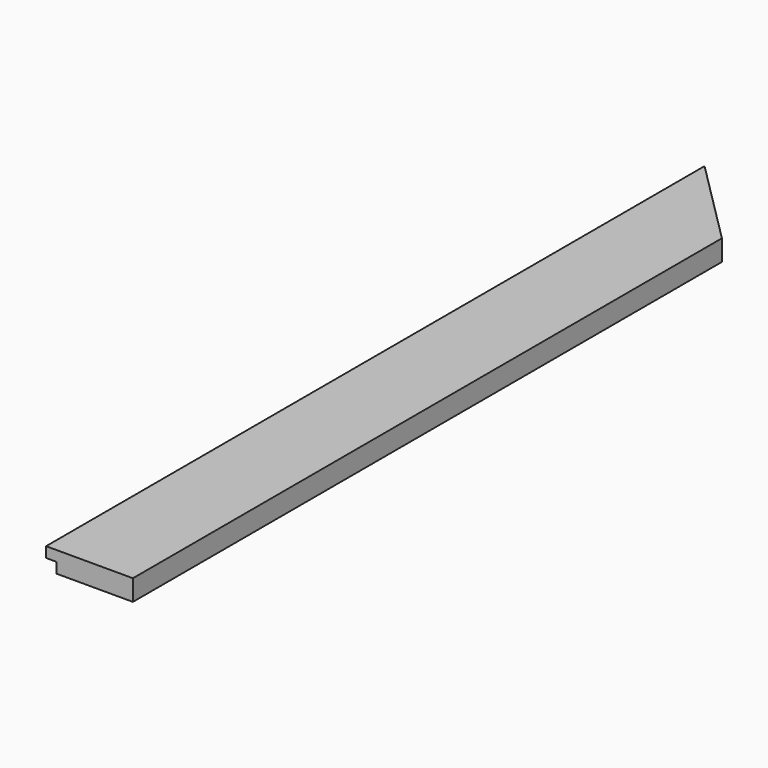
from build123d import *

# Parameters (mm, degrees)
F0_W     = 50
F0_H     = 474
F1_DEPTH = 12
F2_W     = 6
F2_H     = 474
F3_DEPTH = 6
F5_DEPTH = 12


with BuildPart() as f1:
    # F0 (on Top) → F1 (new body)
    with BuildSketch(Plane.XY):
        Rectangle(F0_W, F0_H)
    extrude(amount=F1_DEPTH)

    # F2 (on face) → F3 (cut)
    with BuildSketch(Plane(origin=(0, 0, 0), x_dir=(1, 0, 0), z_dir=(0, 0, -1))):
        with Locations((-22, 0)):
            Rectangle(F2_W, F2_H)
    extrude(amount=-F3_DEPTH, mode=Mode.SUBTRACT)

    # F4 (on face) → F5 (cut, through all)
    with BuildSketch(Plane.XY.offset(12)):
        Polygon((25, 237), (-25, 237), (25, 187), align=None)
    extrude(amount=-F5_DEPTH, mode=Mode.SUBTRACT)


solid = f1.part
